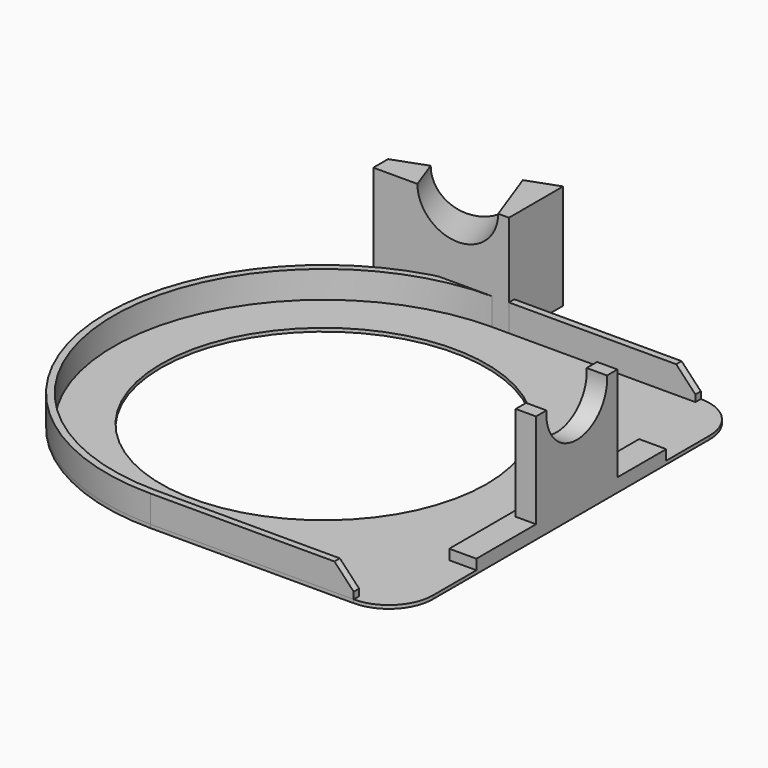
from build123d import *

# Parameters (mm, degrees)
SKETCH001_R       = 48
PAD_DEPTH         = 1
SKETCH_W          = 8
SKETCH_H          = 70
PAD003_DEPTH      = 3
SKETCH008_W       = 6
SKETCH008_H       = 30
PAD004_DEPTH      = 28
SKETCH009_R       = 11.2
POCKET003_DEPTH   = 137.0009589023
PAD001_DEPTH      = 8
POCKET005_DEPTH   = 128.0010000001
PAD002_DEPTH      = 30
PAD002_DEPTH_BACK = 1
SKETCH012_R       = 11.2
POCKET_DEPTH      = 18.7948524157


with BuildPart() as obj1:
    # Sketch001 → Pad (new body)
    with BuildSketch(Plane.XY):
        with BuildLine():
            Line((60, 64), (0, 64))
            ThreePointArc((0, 64), (-63.9999589023, 0), (0, -64))
            Line((60, -64), (0, -64))
            ThreePointArc((60, -64), (69.1923881554, -60.1923881554), (73, -51))
            Line((73, 51), (73, -51))
            ThreePointArc((73, 51), (69.1923881554, 60.1923881554), (60, 64))
        make_face()
        Circle(SKETCH001_R, mode=Mode.SUBTRACT)
    extrude(amount=-PAD_DEPTH)

    # Sketch → Pad003 (new body)
    with BuildSketch(Plane.XY):
        with Locations((69, 0)):
            Rectangle(SKETCH_W, SKETCH_H)
    extrude(amount=PAD003_DEPTH)

    # Sketch008 → Pad004 (new body)
    with BuildSketch(Plane.XY.offset(3)):
        with Locations((70, 2)):
            Rectangle(SKETCH008_W, SKETCH008_H)
    extrude(amount=PAD004_DEPTH)

    # Sketch009 → Pocket003 (cut, through all)
    with BuildSketch(Plane.YZ.offset(73)):
        with Locations((2, 30)):
            Circle(SKETCH009_R)
    extrude(amount=-POCKET003_DEPTH, mode=Mode.SUBTRACT)


with BuildPart() as fillet_connector:
    # Sketch002 → Pad001 (new body)
    with BuildSketch(Plane.XY):
        with BuildLine():
            Line((60, 64), (0, 64))
            ThreePointArc((0, 64), (-63.9999355288, 0), (0, -64))
            Line((60, -64), (0, -64))
            Line((60, -62), (60, -64))
            Line((0, -62), (60, -62))
            ThreePointArc((0, 62), (-61.9999854046, 0), (0, -62))
            Line((0, 62), (60, 62))
            Line((60, 64), (60, 62))
        make_face()
    extrude(amount=PAD001_DEPTH)

    # Sketch011 → Pocket005 (cut, through all)
    with BuildSketch(Plane(origin=(0, 64, 0), x_dir=(-1, 0, 0), z_dir=(0, 1, 0))):
        Polygon((-53.9525, 8.40024), (-64.2022626889, 10.8364072587), (-61.1871640783, 0.741768758), align=None)
    extrude(amount=-POCKET005_DEPTH, mode=Mode.SUBTRACT)


with BuildPart() as obj2:
    # Sketch004 → Pad002 (new body, two sides)
    with BuildSketch(Plane.XY) as pad002_sk:
        Polygon((5, 62), (-35, 62), (-35, 67.4411906293), (5, 82), align=None)
    extrude(amount=PAD002_DEPTH)
    extrude(pad002_sk.sketch, amount=-PAD002_DEPTH_BACK)

    # Sketch012 → Pocket (cut, through all)
    with BuildSketch(Plane(origin=(-25.769403105, 70.8008531437, 0), x_dir=(-0.9396926208, -0.3420201433, 0), z_dir=(-0.3420201433, 0.9396926208, 0))):
        with Locations((-11.7294429294, 30)):
            Circle(SKETCH012_R)
    extrude(amount=-POCKET_DEPTH, mode=Mode.SUBTRACT)


solid = Compound([obj1.part, fillet_connector.part, obj2.part])
